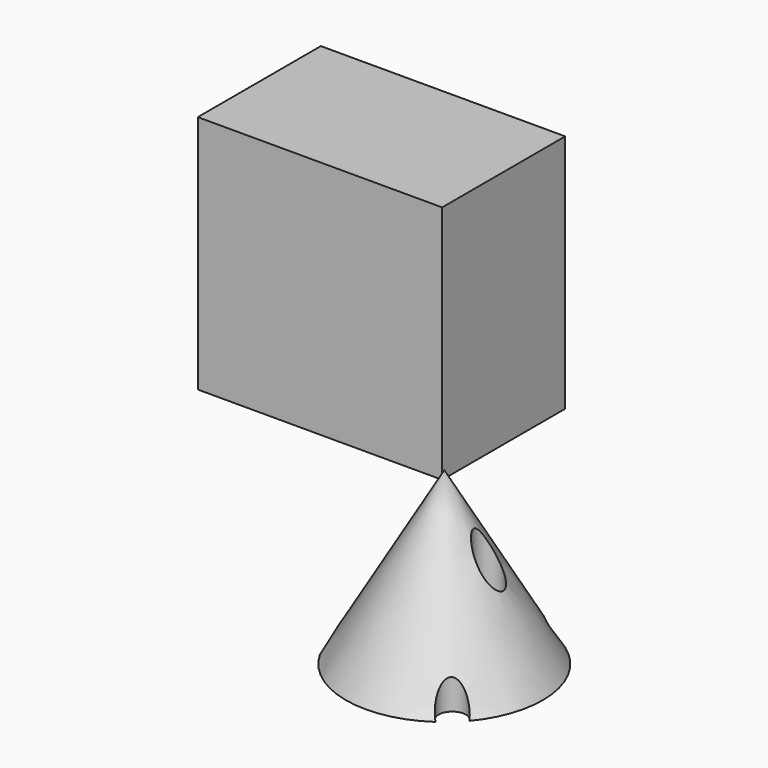
from build123d import *

# Parameters (mm, degrees)
F0_W     = 56.7160658538
F0_H     = 35.6977619231
F1_DEPTH = 55.65923
F2_R     = 22.8481885107
F3_DEPTH = 43.99779
F3_TAPER = 30
F5_D     = 6.35


with BuildPart() as f1:
    # F0 (on Top) → F1 (new body)
    with BuildSketch(Plane.XY):
        with Locations((-40.1368830353, 30.2669946104)):
            Rectangle(F0_W, F0_H)
    extrude(amount=F1_DEPTH)


with BuildPart() as f3:
    # F2 (on Top) → F3 (new body)
    with BuildSketch(Plane.XY):
        with Locations((33.6422324181, -43.7349006534)):
            Circle(F2_R)
    extrude(amount=F3_DEPTH, taper=F3_TAPER)

    # F5 (through all)
    with Locations(Plane(origin=(0, 0, 0), x_dir=(1, 0, 0), z_dir=(0, 0, -1))):
        with Locations((42.7210853135, 42.2546694808), (36.9903769734, 24.5667850618), (12.0847708214, 52.1805474892), (48.4517936536, 59.9425538998)):
            Hole(F5_D / 2)


solid = Compound([f1.part, f3.part])
